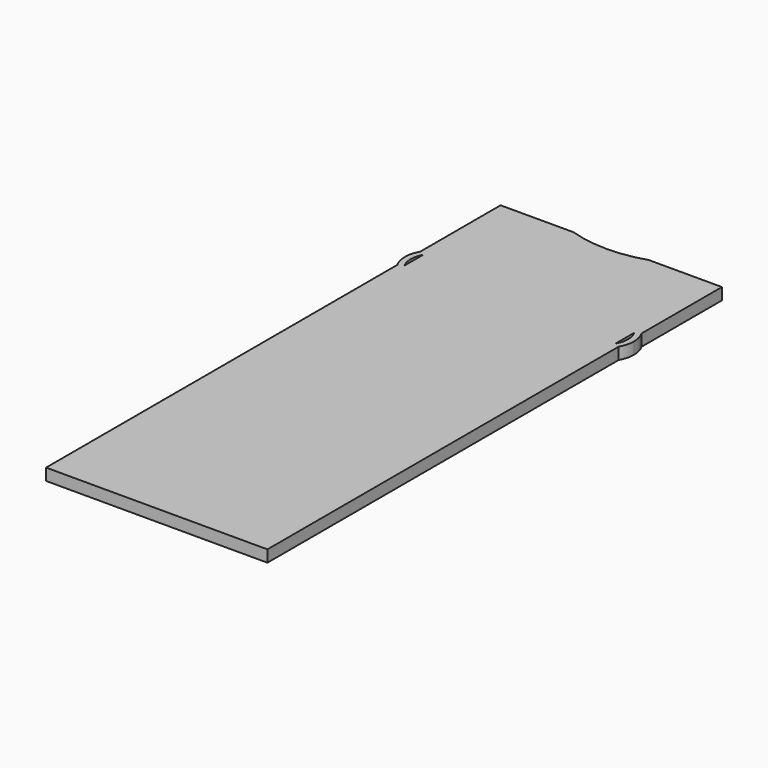
from build123d import *

# Parameters (mm, degrees)
F0_W     = 37.6
F0_H     = 96.5
F1_DEPTH = 2
F3_DEPTH = 2
F5_DEPTH = 2.001


with BuildPart() as f1:
    # F0 (on Top) → F1 (new body)
    with BuildSketch(Plane.XY):
        Rectangle(F0_W, F0_H)
    extrude(amount=F1_DEPTH)

    # F2 (on face) → F3 (join, through all)
    with BuildSketch(Plane.XY.offset(2)):
        with BuildLine():
            Line((-18.8, 26.297960033), (-18.8, 31.202039967))
            ThreePointArc((-18.8, 31.202039967), (-19.45, 28.75), (-18.8, 26.297960033))
        make_face()
        with BuildLine():
            ThreePointArc((19.45, 28.75), (19.2847413723, 30.0183650894), (18.8, 31.202039967))
            Line((18.8, 31.202039967), (18.8, 26.297960033))
            ThreePointArc((18.8, 26.297960033), (19.2847413723, 27.4816349106), (19.45, 28.75))
        make_face()
    extrude(amount=-F3_DEPTH)

    # F4 (on face) → F5 (cut, through all)
    with BuildSketch(Plane.XY.offset(2)):
        with BuildLine():
            Line((-17.9313131313, 26.7933216425), (-17.9313131313, 30.7066783575))
            ThreePointArc((-17.9313131313, 30.7066783575), (-18.45, 28.75), (-17.9313131313, 26.7933216425))
        make_face()
        with BuildLine():
            Line((17.9313131313, 30.7066783575), (17.9313131313, 26.7933216425))
            ThreePointArc((17.9313131313, 26.7933216425), (18.45, 28.75), (17.9313131313, 30.7066783575))
        make_face()
        with BuildLine():
            Line((6.4031242374, 48.25), (-6.4031242374, 48.25))
            ThreePointArc((-6.4031242374, 48.25), (0, 47.25), (6.4031242374, 48.25))
        make_face()
    extrude(amount=-F5_DEPTH, mode=Mode.SUBTRACT)


solid = f1.part
